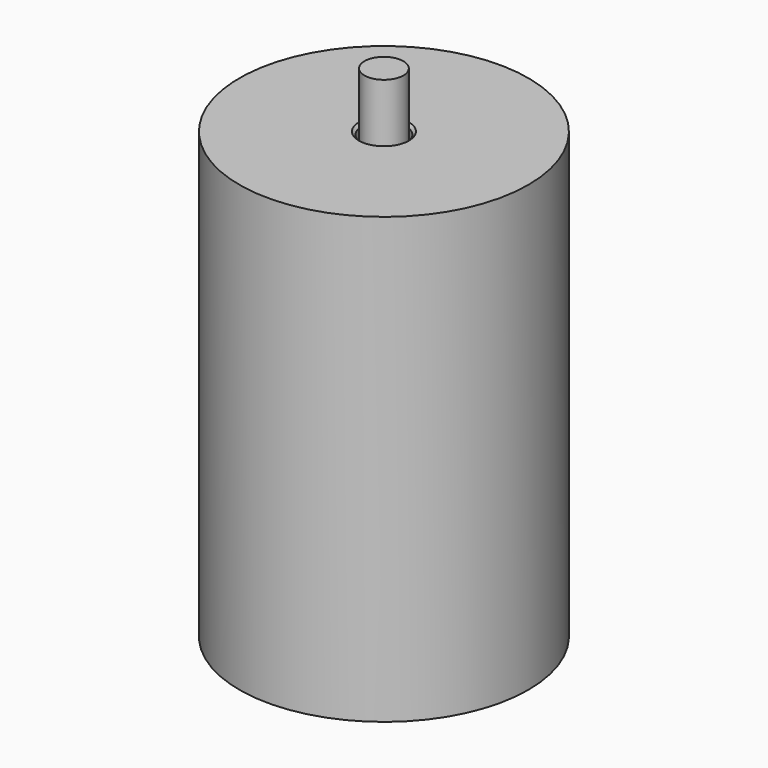
from build123d import *

# Parameters (mm, degrees)
F3_FACE_R = 3.5
F4_DEPTH  = 10


with BuildPart() as f2:
    # F0 (on Front) → F2 (revolve)
    with BuildSketch(Plane.XZ):
        Polygon((26, 0), (4.5, 0), (4, -0.5), (4, -71.5), (8, -75.5), (7, -76.5), (4.5, -79), (4.5, -80), (26, -80), align=None)
    revolve(axis=Axis((0, 0, -40), (0, 0, -1)))


with BuildPart() as f3:
    # F1 (on Front) → F3 (revolve)
    with BuildSketch(Plane.XZ):
        Polygon((3.5, -71.707107), (3.5, -0.292893), (3.5, 0), (0, 0), (0, -80), (4, -80), (4, -78.792893), (7.292893, -75.5), align=None)
    revolve(axis=Axis((0, 0, -40), (0, 0, -1)))

    # F3_face (on face) → F4 (join)
    with BuildSketch(Plane.XY):
        Circle(F3_FACE_R)
    extrude(amount=F4_DEPTH)


solid = Compound([f2.part, f3.part])
